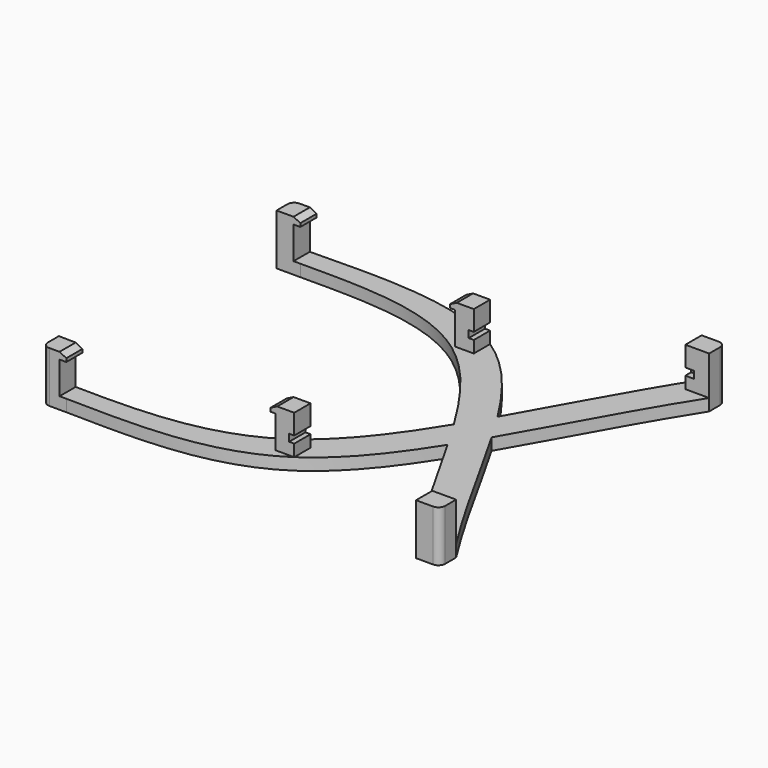
from build123d import *

# Parameters (mm, degrees)
F0_W       = 7
F0_H       = 6
F1_DEPTH   = 3.5
F2_DEPTH   = 15
F3_W       = 55.5
F3_H       = 9.5
F4_DEPTH   = 100
F3_W_2     = 53.1
F3_H_2     = 2.1
F5_DEPTH   = 48.65
F6_SIZE2   = 1
F6_SIZE    = 2
F6_2_SIZE2 = 1
F6_2_SIZE  = 2
F6_3_SIZE2 = 1
F6_3_SIZE  = 2
F7_SIZE2   = 2
F7_SIZE    = 1
F8_R       = 2


with BuildPart() as f1:
    # F0 (on Top) → F1 (new body)
    with BuildSketch(Plane.XY):
        with Locations((-59, 43)):
            Rectangle(F0_W, F0_H)
        with BuildLine():
            add(Edge.make_bspline(
                [(-55.5, 46), (-35.0651084215, 46.3366690111), (-13.1863134629, 47.1130676767), (3.5, 36)],
                knots=[0, 0, 0, 0, 0.4365224183, 0.4365224183, 0.4365224183, 0.4365224183], degree=3))
            Line((-55.5, 46), (-55.5, 40))
            add(Edge.make_bspline(
                [(-55.5, 40), (-37.1709838309, 40.05441996), (-18.4495575403, 40.3060604222), (-3.5, 30)],
                knots=[0, 0, 0, 0, 0.4215444213, 0.4215444213, 0.4215444213, 0.4215444213], degree=3))
            Line((-3.5, 30), (-3.5, 36))
            Line((-3.5, 36), (3.5, 36))
        make_face()
        with Locations((0, 33)):
            Rectangle(F0_W, F0_H)
        with BuildLine():
            add(Edge.make_bspline(
                [(3.5, 36), (12.561299992, 29.9651834856), (20.0913884934, 20.4242808164), (27.3811387561, 8.8639486742)],
                knots=[0.4365224183, 0.4365224183, 0.4365224183, 0.4365224183, 0.6735706191, 0.6735706191, 0.6735706191, 0.6735706191], degree=3))
            Line((3.5, 36), (3.5, 30))
            Line((3.5, 30), (-3.5, 30))
            add(Edge.make_bspline(
                [(-3.5, 30), (5.9722353572, 23.4699452033), (13.930195357, 12.7013372284), (21.9258388158, -0.3794873482)],
                knots=[0.4215444213, 0.4215444213, 0.4215444213, 0.4215444213, 0.688640485, 0.688640485, 0.688640485, 0.688640485], degree=3))
            add(Edge.make_bspline(
                [(21.9258388158, -0.3794873482), (23.7468548988, 2.5891115783), (25.5585039934, 5.6780700829), (27.3811387561, 8.8639486742)],
                knots=[0.6903483348, 0.6903483348, 0.6903483348, 0.6903483348, 0.7497888406, 0.7497888406, 0.7497888406, 0.7497888406], degree=3))
        make_face()
        with BuildLine():
            add(Edge.make_bspline(
                [(27.3811387561, 8.8639486742), (29.1720644783, 6.0238381842), (30.9484840318, 3.0618403714), (32.7295390228, 0)],
                knots=[0.6735706191, 0.6735706191, 0.6735706191, 0.6735706191, 0.7318079668, 0.7318079668, 0.7318079668, 0.7318079668], degree=3))
            add(Edge.make_bspline(
                [(21.9258388158, -0.3794873482), (23.7468548988, 2.5891115783), (25.5585039934, 5.6780700829), (27.3811387561, 8.8639486742)],
                knots=[0.6903483348, 0.6903483348, 0.6903483348, 0.6903483348, 0.7497888406, 0.7497888406, 0.7497888406, 0.7497888406], degree=3))
            add(Edge.make_bspline(
                [(21.9258388158, -0.3794873482), (23.6633015374, -3.221965904), (25.4025436645, -6.1736268671), (27.1594897195, -9.2147042555)],
                knots=[0.688640485, 0.688640485, 0.688640485, 0.688640485, 0.7466807736, 0.7466807736, 0.7466807736, 0.7466807736], degree=3))
            add(Edge.make_bspline(
                [(27.1594897195, -9.2147042555), (29.0255530458, -6.267974343), (30.875033208, -3.1881108676), (32.7295390228, 0)],
                knots=[0.6711689071, 0.6711689071, 0.6711689071, 0.6711689071, 0.7318079668, 0.7318079668, 0.7318079668, 0.7318079668], degree=3))
        make_face()
        with BuildLine():
            add(Edge.make_bspline(
                [(27.3811387561, 8.8639486742), (35.0534078745, 22.2747089818), (42.9203361457, 37.4028324845), (52.5, 52.5)],
                knots=[0.7497888406, 0.7497888406, 0.7497888406, 0.7497888406, 1, 1, 1, 1], degree=3))
            add(Edge.make_bspline(
                [(27.3811387561, 8.8639486742), (29.1720644783, 6.0238381842), (30.9484840318, 3.0618403714), (32.7295390228, 0)],
                knots=[0.6735706191, 0.6735706191, 0.6735706191, 0.6735706191, 0.7318079668, 0.7318079668, 0.7318079668, 0.7318079668], degree=3))
            add(Edge.make_bspline(
                [(32.7295390228, 0), (40.9315739468, 14.1002505736), (49.2319147047, 30.3179077966), (59.5, 46.5)],
                knots=[0.7318079668, 0.7318079668, 0.7318079668, 0.7318079668, 1, 1, 1, 1], degree=3))
            Line((59.5, 46.5), (52.5, 46.5))
            Line((52.5, 46.5), (52.5, 52.5))
        make_face()
        with BuildLine():
            add(Edge.make_bspline(
                [(32.7295390228, 0), (40.9315739468, -14.1002505736), (49.2319147047, -30.3179077966), (59.5, -46.5)],
                knots=[0.7318079668, 0.7318079668, 0.7318079668, 0.7318079668, 1, 1, 1, 1], degree=3))
            add(Edge.make_bspline(
                [(27.1594897195, -9.2147042555), (29.0255530458, -6.267974343), (30.875033208, -3.1881108676), (32.7295390228, 0)],
                knots=[0.6711689071, 0.6711689071, 0.6711689071, 0.6711689071, 0.7318079668, 0.7318079668, 0.7318079668, 0.7318079668], degree=3))
            add(Edge.make_bspline(
                [(27.1594897195, -9.2147042555), (34.8277530321, -22.4876115835), (42.833262349, -37.4638320009), (52.5, -52.5)],
                knots=[0.7466807736, 0.7466807736, 0.7466807736, 0.7466807736, 1, 1, 1, 1], degree=3))
            Line((52.5, -52.5), (52.5, -46.5))
            Line((52.5, -46.5), (59.5, -46.5))
        make_face()
        with BuildLine():
            add(Edge.make_bspline(
                [(21.9258388158, -0.3794873482), (23.6633015374, -3.221965904), (25.4025436645, -6.1736268671), (27.1594897195, -9.2147042555)],
                knots=[0.688640485, 0.688640485, 0.688640485, 0.688640485, 0.7466807736, 0.7466807736, 0.7466807736, 0.7466807736], degree=3))
            add(Edge.make_bspline(
                [(-3.5, -30), (6.2026375516, -23.5380533277), (14.1496419293, -13.0561517363), (21.9258388158, -0.3794873482)],
                knots=[0.4365224183, 0.4365224183, 0.4365224183, 0.4365224183, 0.6903483348, 0.6903483348, 0.6903483348, 0.6903483348], degree=3))
            Line((-3.5, -30), (3.5, -30))
            Line((3.5, -30), (3.5, -36))
            add(Edge.make_bspline(
                [(3.5, -36), (12.4694932079, -30.0263267098), (19.9386454326, -20.6172529014), (27.1594897195, -9.2147042555)],
                knots=[0.4365224183, 0.4365224183, 0.4365224183, 0.4365224183, 0.6711689071, 0.6711689071, 0.6711689071, 0.6711689071], degree=3))
        make_face()
        with Locations((56, 49.5)):
            Rectangle(F0_W, F0_H)
        with Locations((56, -49.5)):
            Rectangle(F0_W, F0_H)
        with Locations((0, -33)):
            Rectangle(F0_W, F0_H)
        with BuildLine():
            Line((-3.5, -36), (-3.5, -30))
            add(Edge.make_bspline(
                [(-55.5, -40.1135468303), (-37.1683816557, -40.3598255975), (-18.293541152, -39.8524832562), (-3.5, -30)],
                knots=[0.0495158831, 0.0495158831, 0.0495158831, 0.0495158831, 0.4365224183, 0.4365224183, 0.4365224183, 0.4365224183], degree=3))
            Line((-55.5, -40.1135468303), (-55.5, -46))
            add(Edge.make_bspline(
                [(-55.5, -46), (-35.0651084215, -46.3366690111), (-13.1863134629, -47.1130676767), (3.5, -36)],
                knots=[0, 0, 0, 0, 0.4365224183, 0.4365224183, 0.4365224183, 0.4365224183], degree=3))
            Line((3.5, -36), (-3.5, -36))
        make_face()
        with BuildLine():
            Line((-55.5, -46), (-55.5, -40.1135468303))
            add(Edge.make_bspline(
                [(-62.5, -40), (-60.1820166395, -40.0381892491), (-57.8454546318, -40.0820364822), (-55.5, -40.1135468303)],
                knots=[0, 0, 0, 0, 0.0495158831, 0.0495158831, 0.0495158831, 0.0495158831], degree=3))
            Line((-62.5, -40), (-62.5, -46))
            Line((-62.5, -46), (-55.5, -46))
        make_face()
    extrude(amount=F1_DEPTH)

    # F0 (on Top) → F2 (join)
    with BuildSketch(Plane.XY):
        with Locations((-59, 43)):
            Rectangle(F0_W, F0_H)
        with Locations((0, 33)):
            Rectangle(F0_W, F0_H)
        with BuildLine():
            Line((-55.5, -46), (-55.5, -40.1135468303))
            add(Edge.make_bspline(
                [(-62.5, -40), (-60.1820166395, -40.0381892491), (-57.8454546318, -40.0820364822), (-55.5, -40.1135468303)],
                knots=[0, 0, 0, 0, 0.0495158831, 0.0495158831, 0.0495158831, 0.0495158831], degree=3))
            Line((-62.5, -40), (-62.5, -46))
            Line((-62.5, -46), (-55.5, -46))
        make_face()
        with Locations((0, -33)):
            Rectangle(F0_W, F0_H)
        with Locations((56, 49.5)):
            Rectangle(F0_W, F0_H)
        with Locations((56, -49.5)):
            Rectangle(F0_W, F0_H)
    extrude(amount=F2_DEPTH)

    # F3 (on Front) → F4 (cut, symmetric)
    with BuildSketch(Plane.XZ):
        with Locations((-29.75, 8.25)):
            Rectangle(F3_W, F3_H)
    extrude(amount=F4_DEPTH, both=True, mode=Mode.SUBTRACT)

    # F3 (on Front) → F5 (cut, symmetric)
    with BuildSketch(Plane.XZ):
        with Locations((28.55, 8.05)):
            Rectangle(F3_W_2, F3_H_2)
    extrude(amount=F5_DEPTH, both=True, mode=Mode.SUBTRACT)

    # F6
    f6_edges = [f1.edges().sort_by_distance(p)[0] for p in [
        (-3.5, 33, 15),
    ]]
    f6_side = f1.faces().sort_by_distance((0, 33, 15))[0]
    chamfer(f6_edges, length=F6_SIZE, length2=F6_SIZE2, reference=f6_side)

    # F6#2
    f6_2_edges = [f1.edges().sort_by_distance(p)[0] for p in [
        (-3.5, -33, 15),
    ]]
    f6_2_side = f1.faces().sort_by_distance((0, -33, 15))[0]
    chamfer(f6_2_edges, length=F6_2_SIZE, length2=F6_2_SIZE2, reference=f6_2_side)

    # F6#3
    f6_3_edges = [f1.edges().sort_by_distance(p)[0] for p in [
        (-55.5, -43.056773, 15),
    ]]
    f6_3_side = f1.faces().sort_by_distance((-59.011322, -43.029185, 15))[0]
    chamfer(f6_3_edges, length=F6_3_SIZE, length2=F6_3_SIZE2, reference=f6_3_side)

    # F7
    f7_edges = [f1.edges().sort_by_distance(p)[0] for p in [
        (-55.5, 43, 15),
    ]]
    f7_side = f1.faces().sort_by_distance((-55.5, 43, 14))[0]
    chamfer(f7_edges, length=F7_SIZE, length2=F7_SIZE2, reference=f7_side)

    # F8
    f8_edges = [f1.edges().sort_by_distance(p)[0] for p in [
        (59.5, 52.5, 7.5),
        (59.5, -52.5, 7.5),
        (-62.5, -46, 7.5),
        (-62.5, 46, 7.5),
    ]]
    fillet(f8_edges, radius=F8_R)


solid = f1.part
